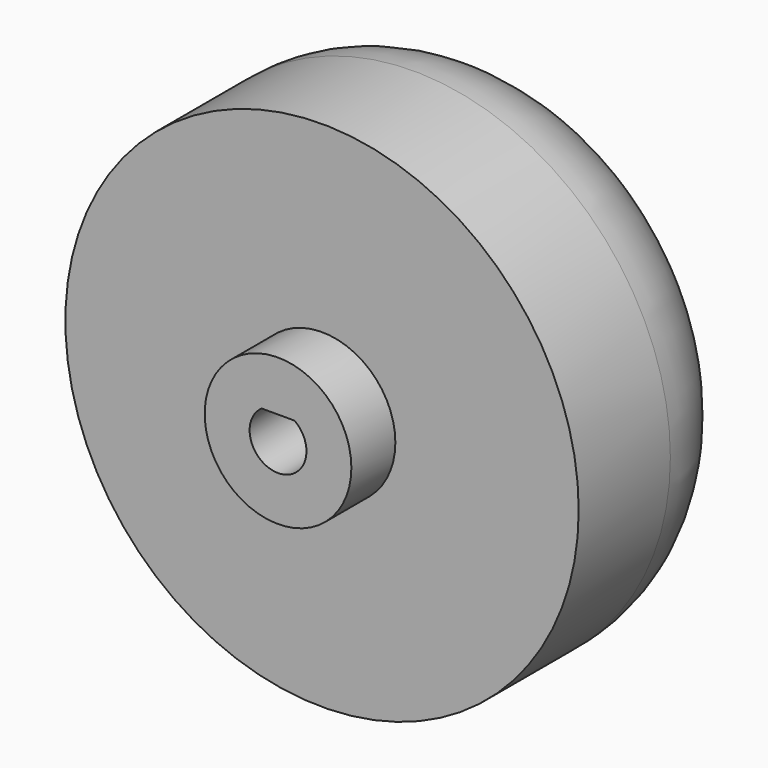
from build123d import *

# Parameters (mm, degrees)
POCKET_DEPTH = 12


with BuildPart() as part:
    # Sketch → Revolution (revolve)
    with BuildSketch(Plane.XY):
        with BuildLine():
            Line((15, 31), (0, 31))
            Line((0, 31), (0, 0))
            Line((0, 0), (8, 0))
            Line((8, 0), (8, 6))
            Line((8, 6), (28, 6))
            Line((28, 18.5), (28, 6))
            ThreePointArc((28, 18.5), (24.163863, 27.520417), (15, 31))
        make_face()
    revolve(axis=Axis((0, 0, 0), (0, 1, 0)))

    # Sketch001 → Pocket (cut)
    with BuildSketch(Plane.XZ):
        with BuildLine():
            Line((-1.8, 2.523886), (1.8, 2.523886))
            ThreePointArc((-1.8, 2.523886), (0, -3.1), (1.8, 2.523886))
        make_face()
    extrude(amount=-POCKET_DEPTH, mode=Mode.SUBTRACT)


solid = part.part
